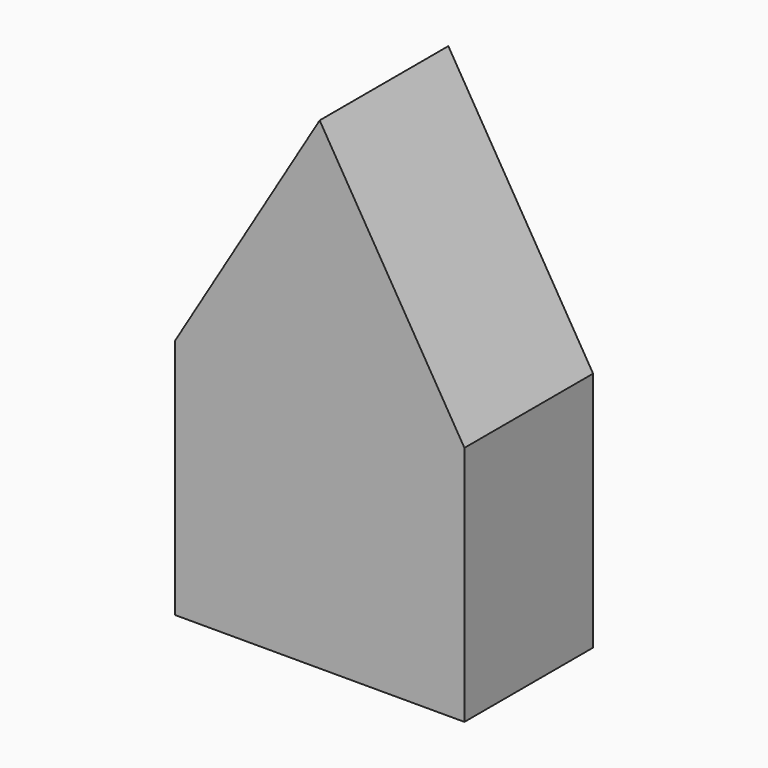
from build123d import *

# Parameters (mm, degrees)
F0_W     = 18
F0_H     = 15
F1_DEPTH = 10


with BuildPart() as f1:
    # F0 (on Front) → F1 (new body)
    with BuildSketch(Plane.XZ):
        Rectangle(F0_W, F0_H)
        Polygon((-9, 7.5), (9, 7.5), (0, 22.5), align=None)
    extrude(amount=F1_DEPTH)


solid = f1.part
